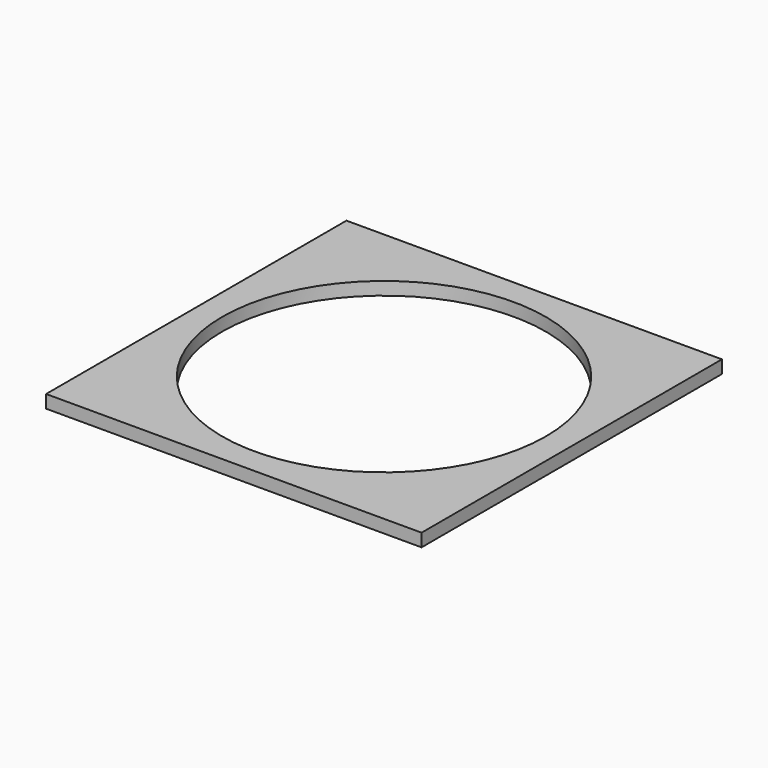
from build123d import *

# Parameters (mm, degrees)
SKETCH_W  = 29
SKETCH_H  = 29
SKETCH_R  = 12.5
PAD_DEPTH = 1


with BuildPart() as part:
    # Sketch → Pad (new body)
    with BuildSketch(Plane.XY):
        Rectangle(SKETCH_W, SKETCH_H)
        Circle(SKETCH_R, mode=Mode.SUBTRACT)
    extrude(amount=PAD_DEPTH)


solid = part.part
